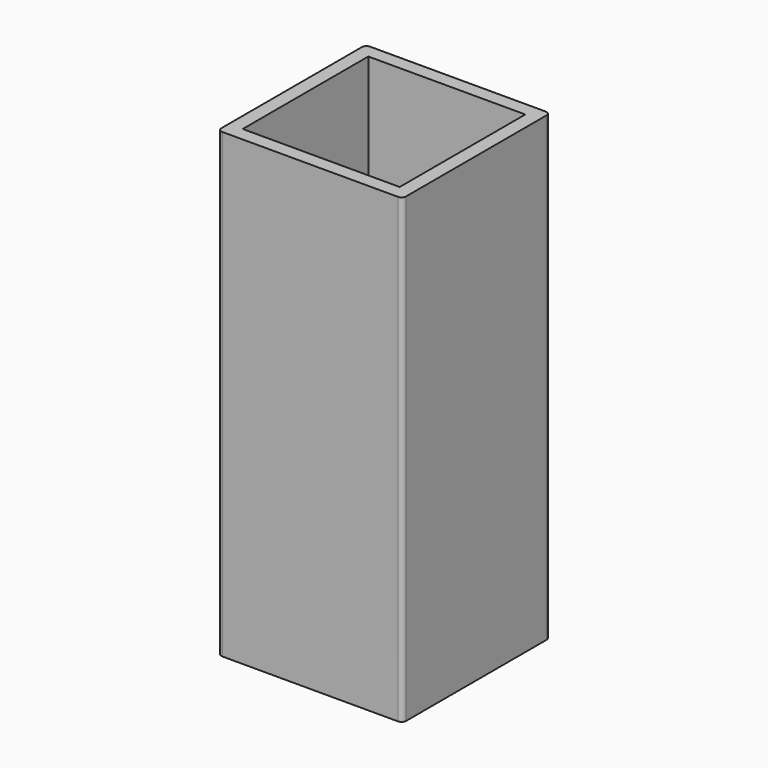
from build123d import *

# Parameters (mm, degrees)
SKETCH_W   = 40
SKETCH_H   = 40
SKETCH_W_2 = 34
SKETCH_H_2 = 34
PAD_DEPTH  = 100
FILLET_R   = 1


with BuildPart() as part:
    # Sketch → Pad (new body)
    with BuildSketch(Plane.XY):
        Rectangle(SKETCH_W, SKETCH_H)
        Rectangle(SKETCH_W_2, SKETCH_H_2, mode=Mode.SUBTRACT)
    extrude(amount=PAD_DEPTH)

    # Fillet
    fillet_edges = [part.edges().sort_by_distance(p)[0] for p in [
        (20, -20, 50),
        (20, 20, 50),
        (-20, -20, 50),
        (-20, 20, 50),
    ]]
    fillet(fillet_edges, radius=FILLET_R)


solid = part.part
